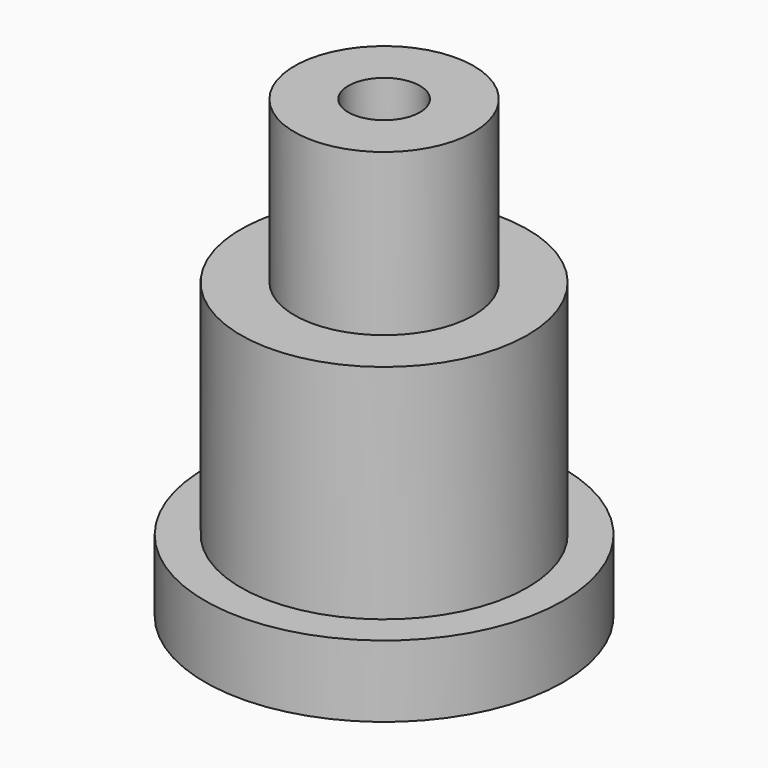
from build123d import *

# Parameters (mm, degrees)
F0_R     = 2.5
F1_DEPTH = 12.7
F0_R_2   = 4
F2_DEPTH = 8.2
F0_R_3   = 5
F3_DEPTH = 2
F5_D     = 2
F5_DEPTH = 3
F5_TIP   = 0.600860619


with BuildPart() as f1:
    # F0 (on Top) → F1 (new body)
    with BuildSketch(Plane.XY):
        Circle(F0_R)
    extrude(amount=F1_DEPTH)

    # F0 (on Top) → F2 (join)
    with BuildSketch(Plane.XY):
        Circle(F0_R_2)
        Circle(F0_R, mode=Mode.SUBTRACT)
    extrude(amount=F2_DEPTH)

    # F0 (on Top) → F3 (join)
    with BuildSketch(Plane.XY):
        Circle(F0_R_3)
        Circle(F0_R_2, mode=Mode.SUBTRACT)
    extrude(amount=F3_DEPTH)

    # F5
    with Locations(Plane.XY.offset(12.7)):
        with Locations((0, 0)):
            Hole(F5_D / 2, depth=F5_DEPTH)
            with Locations((0, 0, -(F5_DEPTH + F5_TIP / 2))):  # 118° drill point
                Cone(0, F5_D / 2, F5_TIP, mode=Mode.SUBTRACT)


solid = f1.part
